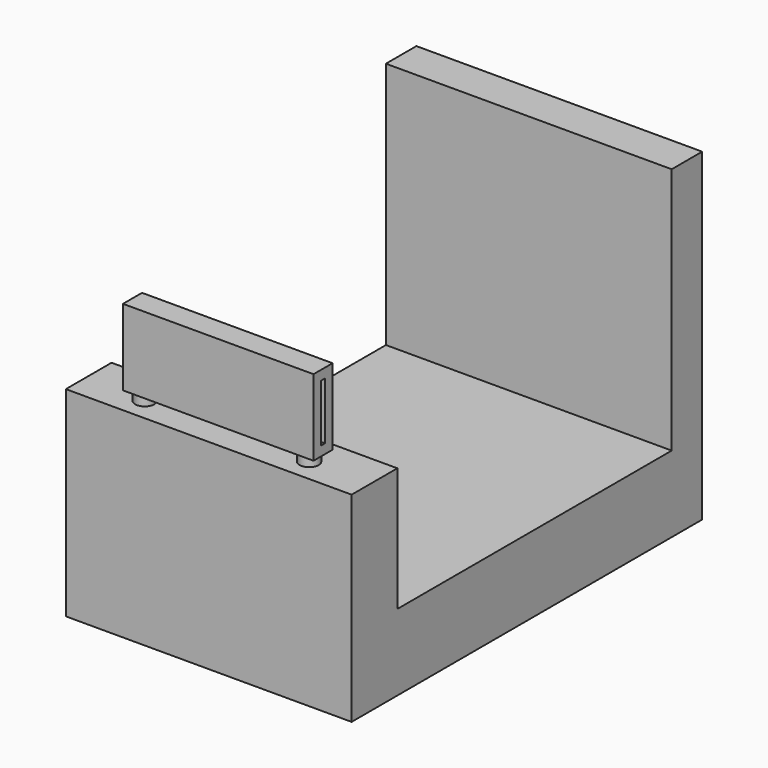
from build123d import *

# Parameters (mm, degrees)
F1_DEPTH = 75
F2_W     = 12.5
F2_H     = 40
F2_W_2   = 2.5
F2_H_2   = 30
F3_DEPTH = 50
F4_W     = 80
F4_H     = 30
F5_DEPTH = 10
F6_R     = 5
F7_DEPTH = 5


with BuildPart() as f1:
    # F0 (on Right) → F1 (new body, symmetric)
    with BuildSketch(Plane.YZ):
        Polygon((-115, 20), (-115, -20), (115, -20), (115, 20), (115, 150), (95, 150), (95, 20), (-85, 20), (-85, 85), (-115, 85), align=None)
    extrude(amount=F1_DEPTH, both=True)


with BuildPart() as f3:
    # F2 (on Right) → F3 (new body, symmetric)
    with BuildSketch(Plane.YZ):
        with Locations((-102.5, 110)):
            Rectangle(F2_W, F2_H)
        with Locations((-102.5, 110)):
            Rectangle(F2_W_2, F2_H_2, mode=Mode.SUBTRACT)
    extrude(amount=F3_DEPTH, both=True)

    # F4 (on face) → F5 (cut)
    with BuildSketch(Plane(origin=(0, -96.25, 0), x_dir=(-1, 0, 0), z_dir=(0, 1, 0))):
        with Locations((0, 110)):
            Rectangle(F4_W, F4_H)
    extrude(amount=-F5_DEPTH, mode=Mode.SUBTRACT)


with BuildPart() as f7:
    # F6 (on face) → F7 (new body, through all)
    with BuildSketch(Plane(origin=(0, 0, 90), x_dir=(1, 0, 0), z_dir=(0, 0, -1))):
        with Locations((43.047235, 102.915294)):
            Circle(F6_R)
        with Locations((-43.241718, 102.915294)):
            Circle(F6_R)
    extrude(amount=F7_DEPTH)


solid = Compound([f1.part, f3.part, f7.part])
